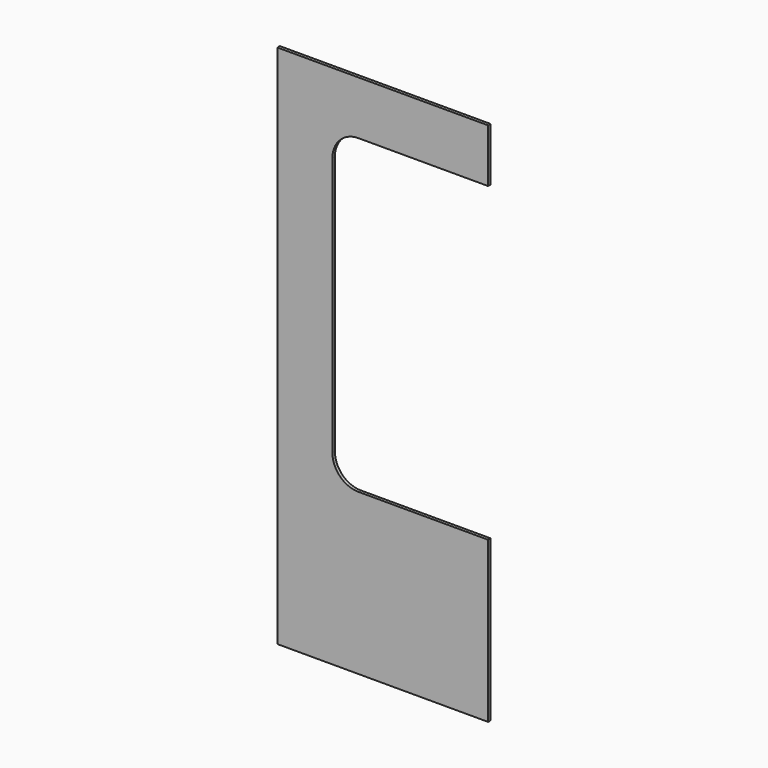
from build123d import *

# Parameters (mm, degrees)
F0_W     = 203
F0_H     = 403
F1_DEPTH = 3
F2_W     = 150
F2_H     = 300
F3_DEPTH = 25
F4_R     = 25
F5_W     = 203
F5_H     = 103
F6_DEPTH = 3


with BuildPart() as f1:
    # F0 (on Front) → F1 (new body)
    with BuildSketch(Plane.XZ):
        Rectangle(F0_W, F0_H)
    extrude(amount=F1_DEPTH)

    # F2 (on face) → F3 (cut)
    with BuildSketch(Plane.XZ.offset(3)):
        with Locations((26.5, 0)):
            Rectangle(F2_W, F2_H)
    extrude(amount=-F3_DEPTH, mode=Mode.SUBTRACT)

    # F4
    f4_edges = [f1.edges().sort_by_distance(p)[0] for p in [
        (-48.5, -1.5, 150),
        (-48.5, -1.5, -150),
    ]]
    fillet(f4_edges, radius=F4_R)

    # F5 (on face) → F6 (join, through all)
    with BuildSketch(Plane.XZ.offset(3)):
        with Locations((0, -253)):
            Rectangle(F5_W, F5_H)
    extrude(amount=-F6_DEPTH)


solid = f1.part
